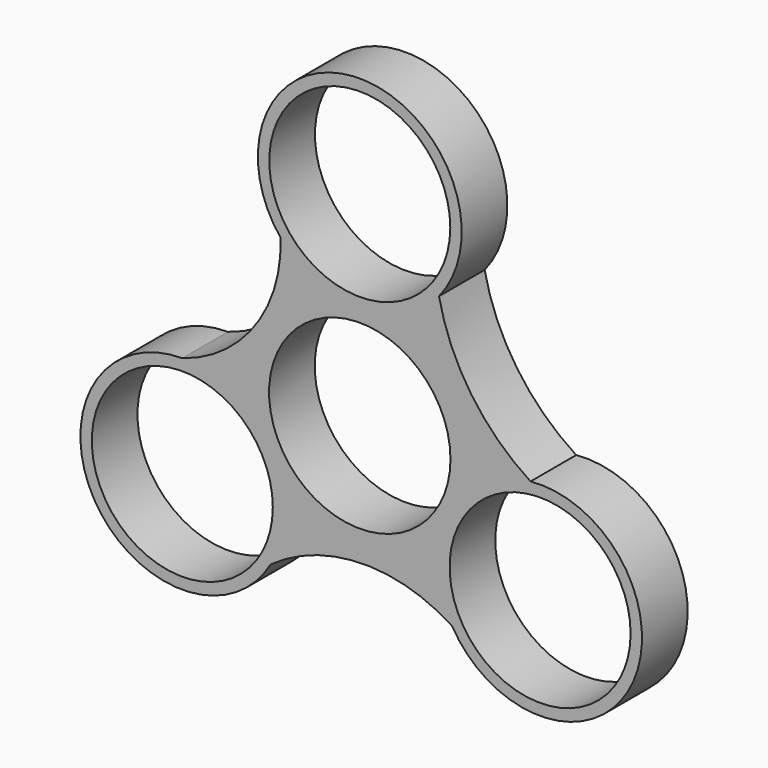
from build123d import *

# Parameters (mm, degrees)
F0_R     = 11.1
F0_R_2   = 11.125
F1_DEPTH = 7


with BuildPart() as f1:
    # F0 (on Front) → F1 (new body)
    with BuildSketch(Plane.XZ):
        with BuildLine():
            ThreePointArc((-10.944227, -18.541743), (0.103066, -14.792873), (11.329863, -17.963949))
            ThreePointArc((11.329863, -17.963949), (33.242377, -17.353839), (20.945663, 0.793374))
            ThreePointArc((20.945663, 0.793374), (13.673056, 7.82648), (9.718521, 17.13868))
            ThreePointArc((9.718521, 17.13868), (0, 37.5), (-9.718521, 17.13868))
            ThreePointArc((-9.718521, 17.13868), (-12.855842, 6.617663), (-21.769544, 0.208257))
            ThreePointArc((-21.769544, 0.208257), (-32.594862, -18.541743), (-10.944227, -18.541743))
        make_face()
        with Locations((-21.769544, -12.291743)):
            Circle(F0_R, mode=Mode.SUBTRACT)
        Circle(F0_R_2, mode=Mode.SUBTRACT)
        with Locations((22.118855, -11.651449)):
            Circle(F0_R, mode=Mode.SUBTRACT)
        with Locations((0, 25)):
            Circle(F0_R, mode=Mode.SUBTRACT)
    extrude(amount=F1_DEPTH)


solid = f1.part
